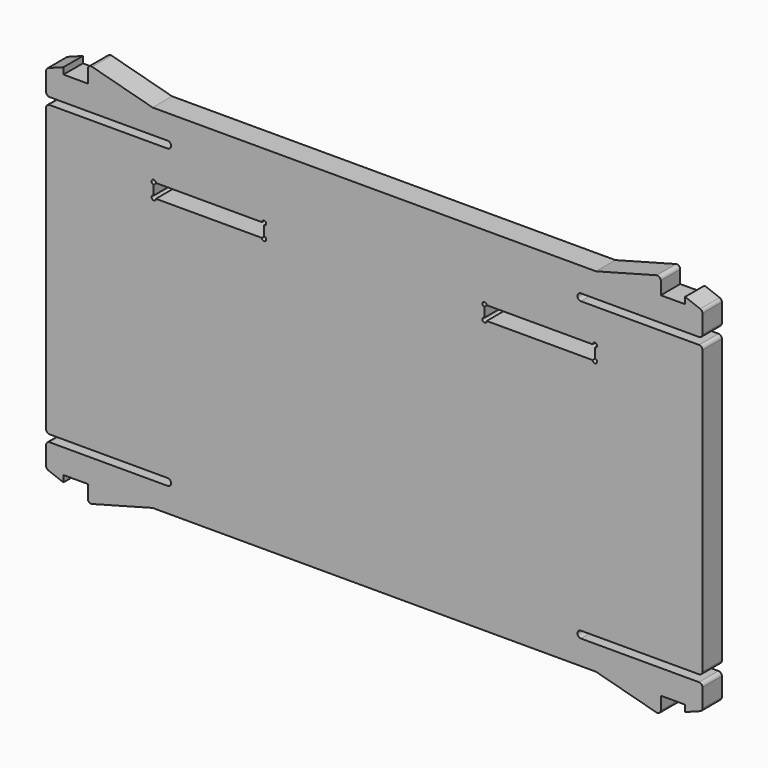
from build123d import *

# Parameters (mm, degrees)
PAD009_DEPTH    = 2.8
FILLET004_R     = 0.4
SKETCH025_W     = 12.7
SKETCH025_H     = 1.6
POCKET014_DEPTH = 2.801
SKETCH026_R     = 0.25
POCKET015_DEPTH = 2.801


with BuildPart() as part:
    # Sketch009 (on Face6 of ShapeBinder008) → Pad009 (new body)
    with BuildSketch(Plane.XZ.offset(60.388718)):
        with BuildLine():
            Line((37.8, 3.127675), (37.8, 0.327675))
            Line((37.8, 0.327675), (23.8, 0.327675))
            ThreePointArc((23.8, 0.327675), (23.4, -0.072325), (23.8, -0.472325))
            Line((23.8, -0.472325), (37.8, -0.472325))
            Line((37.8, -0.472325), (37.8, -33.872325))
            Line((37.8, -33.872325), (23.8, -33.872325))
            ThreePointArc((23.8, -33.872325), (23.4, -34.272325), (23.8, -34.672325))
            Line((23.8, -34.672325), (37.8, -34.672325))
            Line((37.8, -34.672325), (37.8, -37.472325))
            Line((37.8, -37.472325), (35.8, -38.222325))
            Line((35.8, -38.222325), (35.8, -37.472325))
            Line((35.8, -37.472325), (33, -37.472325))
            Line((33, -37.472325), (33, -39.472325))
            Line((33, -39.472325), (25.535898, -37.472325))
            Line((25.535898, -37.472325), (-25.535898, -37.472325))
            Line((-25.535898, -37.472325), (-33, -39.472325))
            Line((-33, -39.472325), (-33, -37.472325))
            Line((-33, -37.472325), (-35.8, -37.472325))
            Line((-35.8, -38.222325), (-35.8, -37.472325))
            Line((-37.8, -37.472325), (-35.8, -38.222325))
            Line((-37.8, -37.472325), (-37.8, -34.672325))
            Line((-37.8, -34.672325), (-23.8, -34.672325))
            ThreePointArc((-23.8, -34.672325), (-23.4, -34.272325), (-23.8, -33.872325))
            Line((-23.8, -33.872325), (-37.8, -33.872325))
            Line((-37.8, -33.872325), (-37.8, -0.472325))
            Line((-37.8, -0.472325), (-23.8, -0.472325))
            ThreePointArc((-23.8, -0.472325), (-23.4, -0.072325), (-23.8, 0.327675))
            Line((-23.8, 0.327675), (-37.8, 0.327675))
            Line((-37.8, 0.327675), (-37.8, 3.127675))
            Line((-37.8, 3.127675), (-35.8, 3.877675))
            Line((-35.8, 3.877675), (-35.8, 3.127675))
            Line((-35.8, 3.127675), (-33, 3.127675))
            Line((-33, 3.127675), (-33, 5.127675))
            Line((-33, 5.127675), (-25.535898, 3.127675))
            Line((-25.535898, 3.127675), (25.535898, 3.127675))
            Line((25.535898, 3.127675), (33, 5.127675))
            Line((33, 5.127675), (33, 3.127675))
            Line((33, 3.127675), (35.8, 3.127675))
            Line((35.8, 3.877675), (35.8, 3.127675))
            Line((37.8, 3.127675), (35.8, 3.877675))
        make_face()
    extrude(amount=-PAD009_DEPTH)

    # Fillet004
    fillet004_edges = [part.edges().sort_by_distance(p)[0] for p in [
        (33, -58.988718, 5.127675),
        (37.8, -58.988718, 3.127675),
        (37.8, -58.988718, 0.327675),
        (37.8, -58.988718, -0.472325),
        (37.8, -58.988718, -33.872325),
        (37.8, -58.988718, -34.672325),
        (37.8, -58.988718, -37.472325),
        (33, -58.988718, -39.472325),
        (-37.8, -58.988718, -33.872325),
        (-37.8, -58.988718, -34.672325),
        (-37.8, -58.988718, -37.472325),
        (-33, -58.988718, -39.472325),
        (-33, -58.988718, 5.127675),
        (-37.8, -58.988718, 3.127675),
        (-37.8, -58.988718, 0.327675),
        (-37.8, -58.988718, -0.472325),
    ]]
    fillet(fillet004_edges, radius=FILLET004_R)

    # Sketch025 (on Face2 of Fillet004) → Pocket014 (cut, through all)
    with BuildSketch(Plane.XZ.offset(60.388718)):
        with Locations((-19.05, -5.2)):
            Rectangle(SKETCH025_W, SKETCH025_H)
        with Locations((19.05, -5.2)):
            Rectangle(SKETCH025_W, SKETCH025_H)
    extrude(amount=-POCKET014_DEPTH, mode=Mode.SUBTRACT)

    # Sketch026 (on Face2 of Pocket014) → Pocket015 (cut, through all)
    with BuildSketch(Plane.XZ.offset(60.388718)):
        with Locations((-25.4, -4.4)):
            Circle(SKETCH026_R)
        with Locations((-12.7, -4.4)):
            Circle(SKETCH026_R)
        with Locations((-12.7, -6)):
            Circle(SKETCH026_R)
        with Locations((-25.4, -6)):
            Circle(SKETCH026_R)
        with Locations((12.7, -4.4)):
            Circle(SKETCH026_R)
        with Locations((12.7, -6)):
            Circle(SKETCH026_R)
        with Locations((25.4, -4.4)):
            Circle(SKETCH026_R)
        with Locations((25.4, -6)):
            Circle(SKETCH026_R)
    extrude(amount=-POCKET015_DEPTH, mode=Mode.SUBTRACT)


solid = part.part
